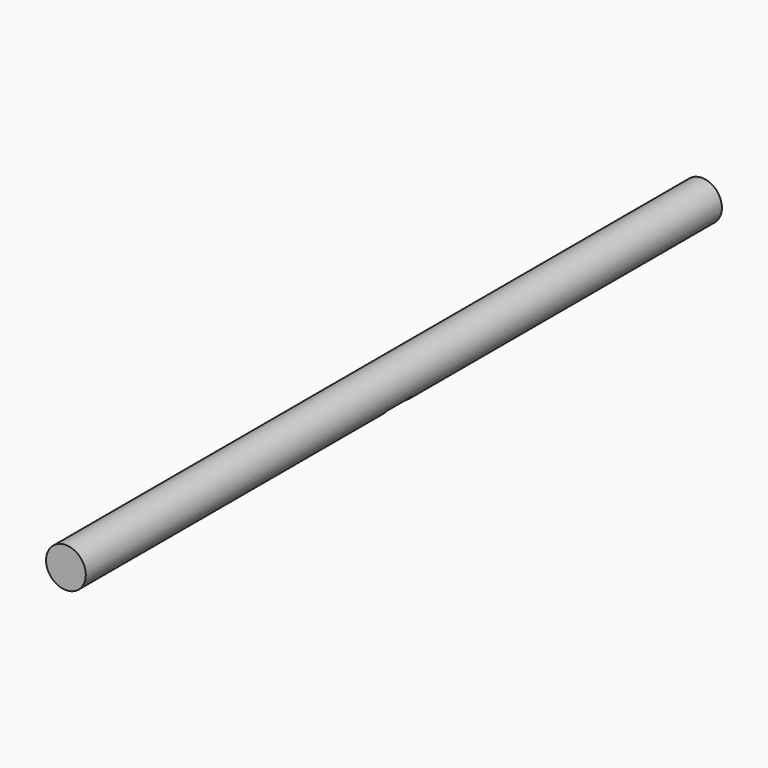
from build123d import *

# Parameters (mm, degrees)
F0_R          = 10
F1_DEPTH      = 200
F1_DEPTH_BACK = 200
F2_W          = 16
F2_H          = 16
F3_DEPTH      = 25


with BuildPart() as f1:
    # F0 (on Front) → F1 (new body, two sides)
    with BuildSketch(Plane.XZ) as f1_sk:
        Circle(F0_R)
    extrude(amount=F1_DEPTH)
    extrude(f1_sk.sketch, amount=-F1_DEPTH_BACK)

    # F2 (on Top) → F3 (cut)
    with BuildSketch(Plane.XY):
        Rectangle(F2_W, F2_H)
    extrude(amount=-F3_DEPTH, mode=Mode.SUBTRACT)


solid = f1.part
